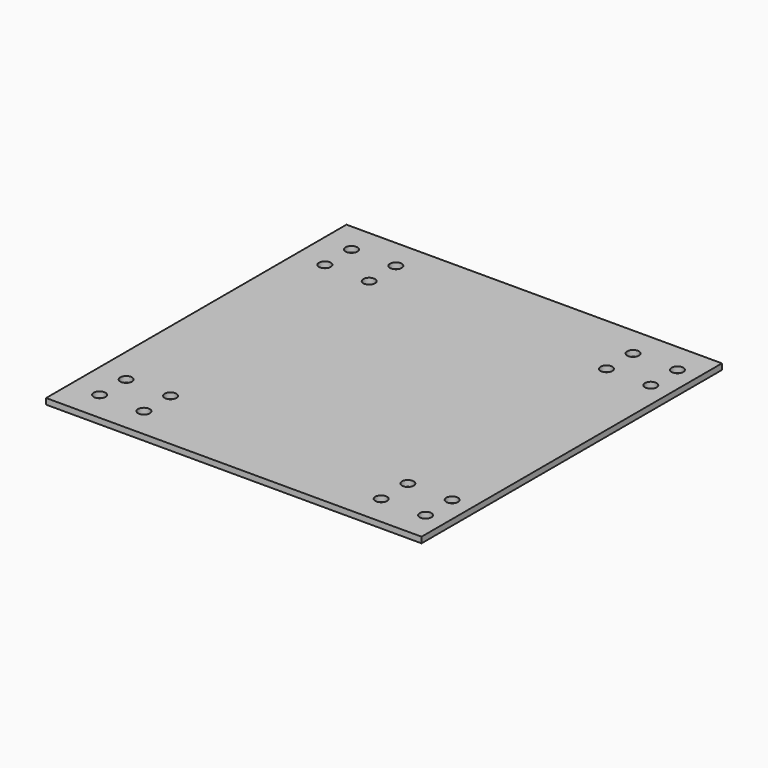
from build123d import *

# Parameters (mm, degrees)
F1_W     = 203.2
F1_H     = 203.2
F2_DEPTH = 3.175
F0_R     = 3.175
F3_DEPTH = 3.175


with BuildPart() as f2:
    # F1 (on Top) → F2 (new body)
    with BuildSketch(Plane.XY):
        Rectangle(F1_W, F1_H)
    extrude(amount=F2_DEPTH)

    # F0 (on Top) → F3 (cut, through all)
    with BuildSketch(Plane.XY):
        with Locations((-85.76499, 85.20049)):
            Circle(F0_R)
        with Locations((-85.76499, 67.19951)):
            Circle(F0_R)
        with Locations((-61.76199, 85.20049)):
            Circle(F0_R)
        with Locations((-61.76199, 67.19951)):
            Circle(F0_R)
        with Locations((-85.76499, -67.19951)):
            Circle(F0_R)
        with Locations((-61.76199, -67.19951)):
            Circle(F0_R)
        with Locations((-61.76199, -85.20049)):
            Circle(F0_R)
        with Locations((-85.76499, -85.20049)):
            Circle(F0_R)
        with Locations((66.63501, 85.20049)):
            Circle(F0_R)
        with Locations((90.63801, 85.20049)):
            Circle(F0_R)
        with Locations((90.63801, 67.19951)):
            Circle(F0_R)
        with Locations((66.63501, 67.19951)):
            Circle(F0_R)
        with Locations((66.63501, -67.19951)):
            Circle(F0_R)
        with Locations((90.63801, -67.19951)):
            Circle(F0_R)
        with Locations((90.63801, -85.20049)):
            Circle(F0_R)
        with Locations((66.63501, -85.20049)):
            Circle(F0_R)
    extrude(amount=F3_DEPTH, mode=Mode.SUBTRACT)


solid = f2.part
